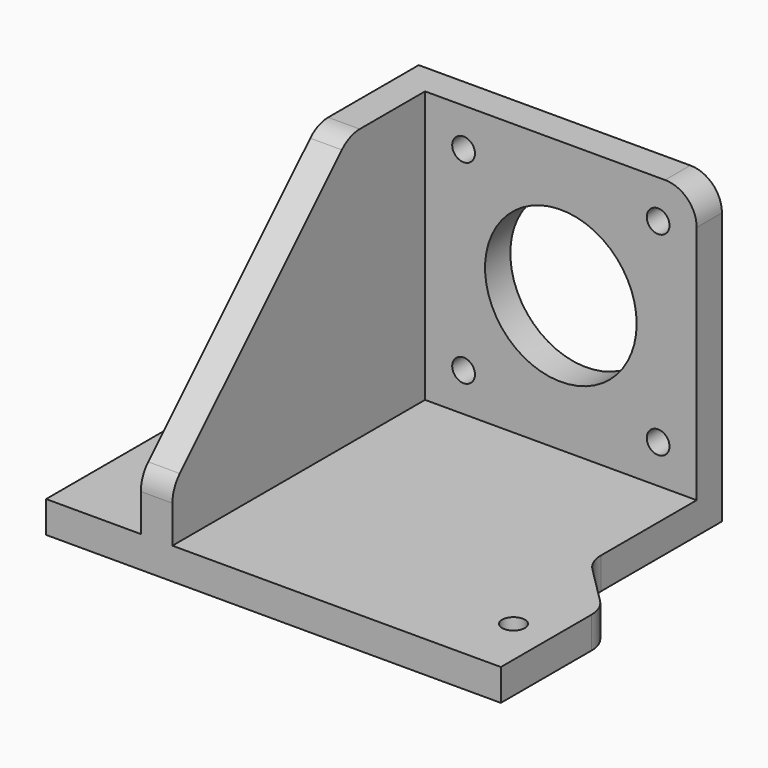
from build123d import *

# Parameters (mm, degrees)
F1_DEPTH = 5
F2_R     = 1.8
F3_DEPTH = 25
F5_DEPTH = 43
F7_DEPTH = 25
F8_R     = 12
F8_R_2   = 1.8
F9_DEPTH = 25
F10_R    = 5


with BuildPart() as f1:
    # F0 (on Top) → F1 (new body)
    with BuildSketch(Plane.XY):
        Polygon((-36, 27.5), (-36, -27.5), (36, -27.5), (36, -7.5), (27, 1.5), (27, 27.5), align=None)
    extrude(amount=F1_DEPTH)

    # F2 (on face) → F3 (cut)
    with BuildSketch(Plane.XY.offset(5)):
        with Locations((-26, 17.5)):
            Circle(F2_R)
        with Locations((-26, 2.5)):
            Circle(F2_R)
        with Locations((-26, -17.5)):
            Circle(F2_R)
        with Locations((30, -17.5)):
            Circle(F2_R)
    extrude(amount=-F3_DEPTH, mode=Mode.SUBTRACT)

    # F4 (on face) → F5 (join)
    with BuildSketch(Plane.XY.offset(5)):
        Polygon((-16, 22.5), (27, 22.5), (27, 27.5), (-21, 27.5), (-21, -27.5), (-16, -27.5), align=None)
    extrude(amount=F5_DEPTH)

    # F6 (on face) → F7 (cut)
    with BuildSketch(Plane.YZ.offset(-16)):
        Polygon((-27.5, 13), (7.5, 48), (-27.5, 48), align=None)
    extrude(amount=-F7_DEPTH, mode=Mode.SUBTRACT)

    # F8 (on face) → F9 (cut)
    with BuildSketch(Plane.XZ.offset(-22.5)):
        with Locations((5.5, 26.5)):
            Circle(F8_R)
        with Locations((-9.9, 41.9)):
            Circle(F8_R_2)
        with Locations((-9.9, 11.1)):
            Circle(F8_R_2)
        with Locations((20.9, 41.9)):
            Circle(F8_R_2)
        with Locations((20.9, 11.1)):
            Circle(F8_R_2)
    extrude(amount=-F9_DEPTH, mode=Mode.SUBTRACT)

    # F10
    f10_edges = [f1.edges().sort_by_distance(p)[0] for p in [
        (-18.5, 7.5, 48),
        (-18.5, -27.5, 13),
        (27, 25, 48),
        (36, -7.5, 2.5),
        (27, 1.5, 2.5),
    ]]
    fillet(f10_edges, radius=F10_R)


solid = f1.part
